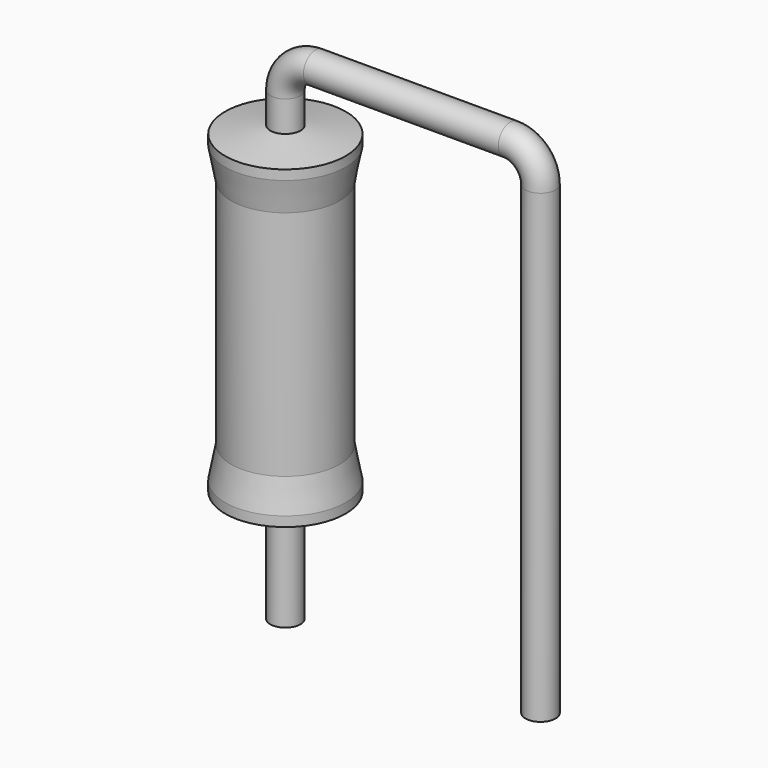
from build123d import *

# Parameters (mm, degrees)
SKETCH_R = 0.45


with BuildPart() as sweep_body:
    # Sweep: sweep along a path in Sketch001
    with BuildLine(Plane.XZ) as sweep_path:
        Line((0, -3), (0, 10.9))
        ThreePointArc((0, 10.9), (0.2636, 11.536392), (0.899988, 11.8))
        Line((0.899988, 11.8), (6.72, 11.8))
        ThreePointArc((6.72, 11.8), (7.356396, 11.536396), (7.62, 10.9))
        Line((7.62, 10.9), (7.62, -3))
    # Sketch → Sweep (sweep)
    with BuildSketch(Plane.XY.offset(-2)):
        Circle(SKETCH_R)
    sweep(path=sweep_path.line)


with BuildPart() as revolution:
    # Sketch002 → Revolution (revolve)
    with BuildSketch(Plane.XZ):
        Polygon((0, 0.1), (0, 10), (0.3375, 10), (1.8, 9.7525), (1.8, 9.46), (1.62, 8.515), (1.62, 1.585), (1.8, 0.64), (1.8, 0.3475), (0.3375, 0.1), align=None)
    revolve(axis=Axis((0, 0, 0), (0, 0, 1)))


solid = Compound([sweep_body.part, revolution.part])
